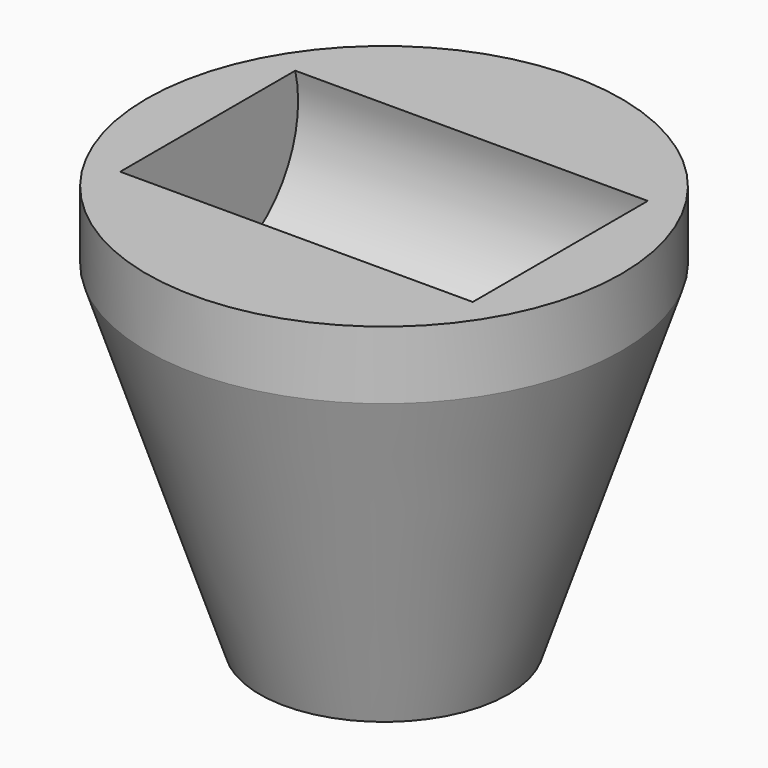
from build123d import *

# Parameters (mm, degrees)
F0_R          = 10.5
F0_R_2        = 2.65
F1_DEPTH      = 18
F2_R          = 5
F3_DEPTH      = 7.8
F3_DEPTH_BACK = 7.8
F4_SIZE2      = 5
F4_SIZE       = 15


with BuildPart() as f1:
    # F0 (on Top) → F1 (new body)
    with BuildSketch(Plane.XY):
        Circle(F0_R)
        Circle(F0_R_2, mode=Mode.SUBTRACT)
    extrude(amount=F1_DEPTH)

    # F2 (on Right) → F3 (cut, two sides)
    with BuildSketch(Plane.YZ) as f3_sk:
        with Locations((0, 16.75)):
            Circle(F2_R)
    extrude(amount=-F3_DEPTH, mode=Mode.SUBTRACT)
    extrude(f3_sk.sketch, amount=F3_DEPTH_BACK, mode=Mode.SUBTRACT)

    # F4
    f4_edges = [f1.edges().sort_by_distance(p)[0] for p in [
        (-10.5, 0, 0),
    ]]
    f4_side = f1.faces().sort_by_distance((-10.5, 0, 9))[0]
    chamfer(f4_edges, length=F4_SIZE, length2=F4_SIZE2, reference=f4_side)


solid = f1.part
